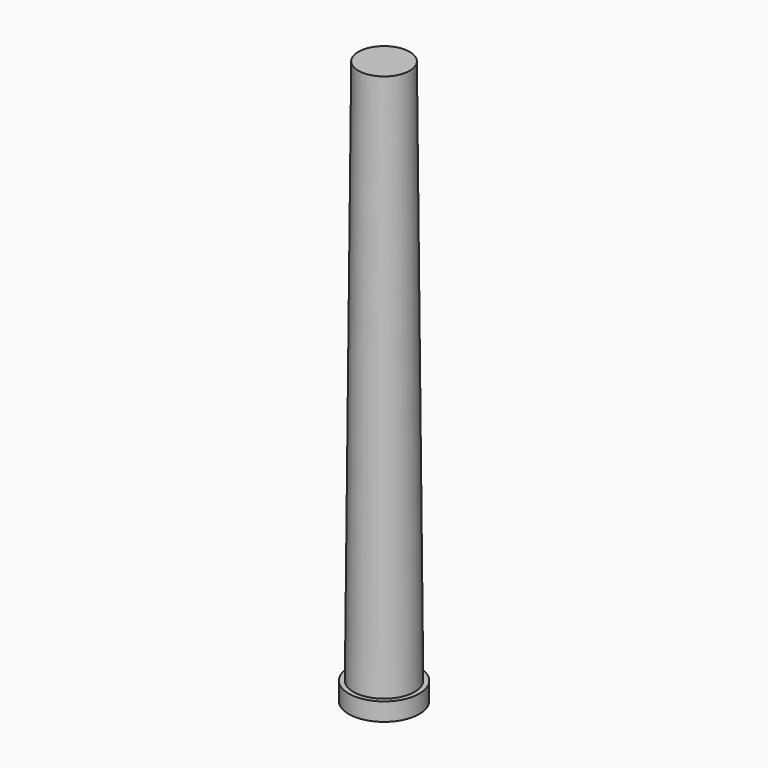
from build123d import *

# Parameters (mm, degrees)
F0_R     = 1.73736
F2_R     = 1.4478
F4_R     = 1.99136
F5_DEPTH = 1.016


with BuildPart() as f3:
    # F0 (on Top) → F3 section 0
    with BuildSketch(Plane.XY):
        Circle(F0_R)
    # F2 (on offset) → F3 section 1
    with BuildSketch(Plane.XY.offset(31.75)):
        Circle(F2_R)
    loft()

    # F4 (on Top) → F5 (join)
    with BuildSketch(Plane.XY):
        Circle(F4_R)
    extrude(amount=F5_DEPTH)


solid = f3.part
